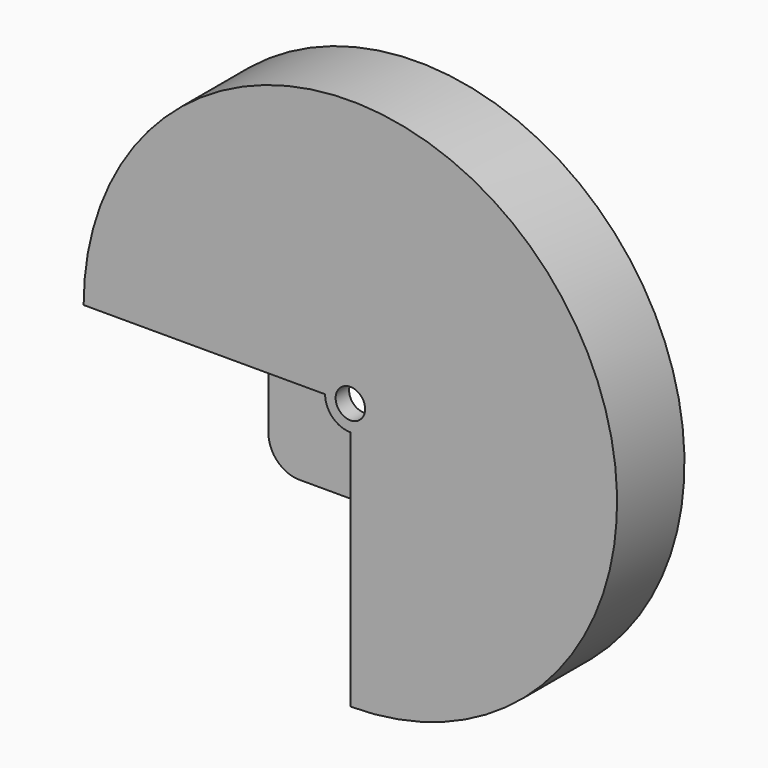
from build123d import *

# Parameters (mm, degrees)
F0_R      = 95
F1_DEPTH  = 30
F2_W      = 95
F2_H      = 95
F3_DEPTH  = 40
F4_R      = 9
F5_DEPTH  = 30
F6_R      = 5.25
F7_DEPTH  = 40
F9_DEPTH  = 24
F10_W     = 56
F10_H     = 56
F10_W_2   = 57
F10_H_2   = 5
F10_W_3   = 5
F10_H_3   = 57
F11_DEPTH = 24
F13_DEPTH = 1.2
F15_DEPTH = 8
F16_R     = 6
F17_W     = 28
F17_H     = 15
F18_DEPTH = 6
F19_R     = 11


with BuildPart() as f1:
    # F0 (on Front) → F1 (new body)
    with BuildSketch(Plane.XZ):
        Circle(F0_R)
    extrude(amount=F1_DEPTH)

    # F2 (on face) → F3 (cut)
    with BuildSketch(Plane.XZ.offset(30)):
        with Locations((-47.5, -47.5)):
            Rectangle(F2_W, F2_H)
    extrude(amount=-F3_DEPTH, mode=Mode.SUBTRACT)

    # F4 (on face) → F5 (join)
    with BuildSketch(Plane.XZ.offset(30)):
        Circle(F4_R)
    extrude(amount=-F5_DEPTH)

    # F6 (on face) → F7 (cut)
    with BuildSketch(Plane.XZ.offset(30)):
        Circle(F6_R)
    extrude(amount=-F7_DEPTH, mode=Mode.SUBTRACT)

    # F8 (on face) → F9 (cut)
    with BuildSketch(Plane(origin=(0, 0, 0), x_dir=(-1, 0, 0), z_dir=(0, 1, 0))):
        with BuildLine():
            ThreePointArc((0, -9), (6.3639610307, -6.3639610307), (9, 0))
            Line((9, 0), (5.25, 0))
            ThreePointArc((5.25, 0), (3.7123106012, -3.7123106012), (0, -5.25))
            Line((0, -5.25), (0, -9))
        make_face()
        with BuildLine():
            ThreePointArc((0, -5.25), (3.7123106012, -3.7123106012), (5.25, 0))
            Line((5.25, 0), (0, 0))
            Line((0, 0), (0, -5.25))
        make_face()
        with BuildLine():
            ThreePointArc((-5, 1.6007810594), (-3.7123106012, 3.7123106012), (-1.6007810594, 5))
            Line((-1.6007810594, 5), (-5, 5))
            Line((-5, 5), (-5, 1.6007810594))
        make_face()
        with BuildLine():
            Line((-1.6007810594, 5), (1.6007810594, 5))
            ThreePointArc((1.6007810594, 5), (0, 5.25), (-1.6007810594, 5))
        make_face()
        with BuildLine():
            Line((1.6007810594, 5), (89.8610037781, 5))
            ThreePointArc((89.8610037781, 5), (-63.6396103068, 63.6396103068), (-5, -89.8610037781))
            Line((-5, -89.8610037781), (-5, -1.6007810594))
            ThreePointArc((-5, -1.6007810594), (-5.25, 0), (-5, 1.6007810594))
            Line((-5, 1.6007810594), (-5, 5))
            Line((-5, 5), (-1.6007810594, 5))
            ThreePointArc((-1.6007810594, 5), (0, 5.25), (1.6007810594, 5))
        make_face()
        with BuildLine():
            ThreePointArc((0, -90), (63.6396103068, -63.6396103068), (90, 0))
            Line((90, 0), (9, 0))
            ThreePointArc((9, 0), (6.3639610307, -6.3639610307), (0, -9))
            Line((0, -9), (0, -90))
        make_face()
        with BuildLine():
            Line((9, 0), (90, 0))
            ThreePointArc((90, 0), (89.9652442336, 2.5009658109), (89.8610037781, 5))
            Line((89.8610037781, 5), (1.6007810594, 5))
            ThreePointArc((1.6007810594, 5), (4.2406721496, 3.0950282259), (5.25, 0))
            Line((5.25, 0), (9, 0))
        make_face()
        with BuildLine():
            ThreePointArc((-5, -89.8610037781), (-2.5009658109, -89.9652442336), (0, -90))
            Line((0, -90), (0, -9))
            Line((0, -9), (0, -5.25))
            ThreePointArc((0, -5.25), (-3.0950282259, -4.2406721496), (-5, -1.6007810594))
            Line((-5, -1.6007810594), (-5, -89.8610037781))
        make_face()
        with BuildLine():
            ThreePointArc((5.25, 0), (4.2406721496, 3.0950282259), (1.6007810594, 5))
            Line((1.6007810594, 5), (-1.6007810594, 5))
            ThreePointArc((-1.6007810594, 5), (-3.7123106012, 3.7123106012), (-5, 1.6007810594))
            Line((-5, 1.6007810594), (-5, -1.6007810594))
            ThreePointArc((-5, -1.6007810594), (-3.0950282259, -4.2406721496), (0, -5.25))
            Line((0, -5.25), (0, 0))
            Line((0, 0), (5.25, 0))
        make_face()
        with BuildLine():
            Line((1.6007810594, 5), (89.8610037781, 5))
            ThreePointArc((89.8610037781, 5), (-63.6396103068, 63.6396103068), (-5, -89.8610037781))
            Line((-5, -89.8610037781), (-5, -1.6007810594))
            ThreePointArc((-5, -1.6007810594), (-5.25, 0), (-5, 1.6007810594))
            Line((-5, 1.6007810594), (-5, 5))
            Line((-5, 5), (-1.6007810594, 5))
            ThreePointArc((-1.6007810594, 5), (0, 5.25), (1.6007810594, 5))
        make_face()
    extrude(amount=-F9_DEPTH, mode=Mode.SUBTRACT)

    # F10 (on face) → F11 (join)
    with BuildSketch(Plane(origin=(0, -24, 0), x_dir=(-1, 0, 0), z_dir=(0, 1, 0))):
        Polygon((33, 5), (33, 33), (-33, 33), (-33, -33), (-5, -33), (0, -33), (33, -33), (33, 0), align=None)
        Rectangle(F10_W, F10_H, mode=Mode.SUBTRACT)
        with Locations((61.5, 2.5)):
            Rectangle(F10_W_2, F10_H_2)
        with Locations((-2.5, -61.5)):
            Rectangle(F10_W_3, F10_H_3)
    extrude(amount=F11_DEPTH)

    # F12 (on face) → F13 (join)
    with BuildSketch(Plane.XZ.offset(24)):
        with BuildLine():
            Line((-28, 0), (-28, -28))
            Line((-28, -28), (0, -28))
            Line((0, -28), (0, -9))
            ThreePointArc((0, -9), (-6.3639610307, -6.3639610307), (-9, 0))
            Line((-9, 0), (-28, 0))
        make_face()
        Polygon((0, -28), (-28, -28), (-28, 0), (-33, 0), (-33, -33), (0, -33), align=None)
    extrude(amount=F13_DEPTH)

    # F14 (on face) → F15 (cut)
    with BuildSketch(Plane(origin=(0, 0, 0), x_dir=(-1, 0, 0), z_dir=(0, 1, 0))):
        Polygon((33, 33), (-33, 33), (-33, -33), (-5, -33), (-5, -28), (-28, -28), (-28, 28), (28, 28), (28, 5), (33, 5), align=None)
    extrude(amount=-F15_DEPTH, mode=Mode.SUBTRACT)

    # F16
    f16_edges = [f1.edges().sort_by_distance(p)[0] for p in [
        (-28, -12, -28),
        (28, -16, -28),
        (28, -16, 28),
        (-28, -16, 28),
    ]]
    fillet(f16_edges, radius=F16_R)

    # F17 (on face) → F18 (cut)
    with BuildSketch(Plane(origin=(0, -8, 0), x_dir=(-1, 0, 0), z_dir=(0, 1, 0))):
        with Locations((-19, -25.5)):
            Rectangle(F17_W, F17_H)
    extrude(amount=-F18_DEPTH, mode=Mode.SUBTRACT)

    # F19
    f19_edges = [f1.edges().sort_by_distance(p)[0] for p in [
        (33, -19, -33),
        (-33, -12.6, -33),
        (33, -16, 33),
        (-33, -16, 33),
    ]]
    fillet(f19_edges, radius=F19_R)


solid = f1.part
